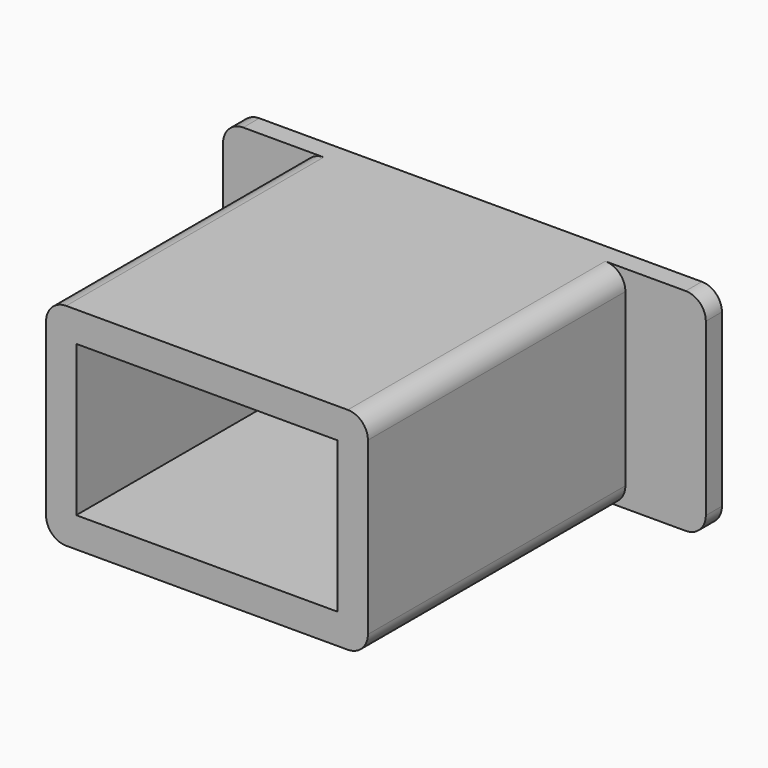
from build123d import *

# Parameters (mm, degrees)
F0_W     = 152.4
F0_H     = 66.675
F1_DEPTH = 6.35
F2_W     = 101.6
F2_H     = 66.675
F3_DEPTH = 101.6
F4_R     = 6.35
F5_W     = 82.55
F5_H     = 47.625
F6_DEPTH = 88.9


with BuildPart() as f1:
    # F0 (on Front) → F1 (new body)
    with BuildSketch(Plane.XZ):
        Rectangle(F0_W, F0_H)
    extrude(amount=F1_DEPTH)

    # F2 (on face) → F3 (join)
    with BuildSketch(Plane.XZ.offset(6.35)):
        Rectangle(F2_W, F2_H)
    extrude(amount=F3_DEPTH)

    # F4
    f4_edges = [f1.edges().sort_by_distance(p)[0] for p in [
        (76.2, -3.175, -33.3375),
        (76.2, -3.175, 33.3375),
        (-76.2, -3.175, 33.3375),
        (-76.2, -3.175, -33.3375),
        (50.8, -57.15, -33.3375),
        (50.8, -57.15, 33.3375),
        (-50.8, -57.15, 33.3375),
        (-50.8, -57.15, -33.3375),
    ]]
    fillet(f4_edges, radius=F4_R)

    # F5 (on face) → F6 (cut)
    with BuildSketch(Plane.XZ.offset(107.95)):
        Rectangle(F5_W, F5_H)
    extrude(amount=-F6_DEPTH, mode=Mode.SUBTRACT)


solid = f1.part
